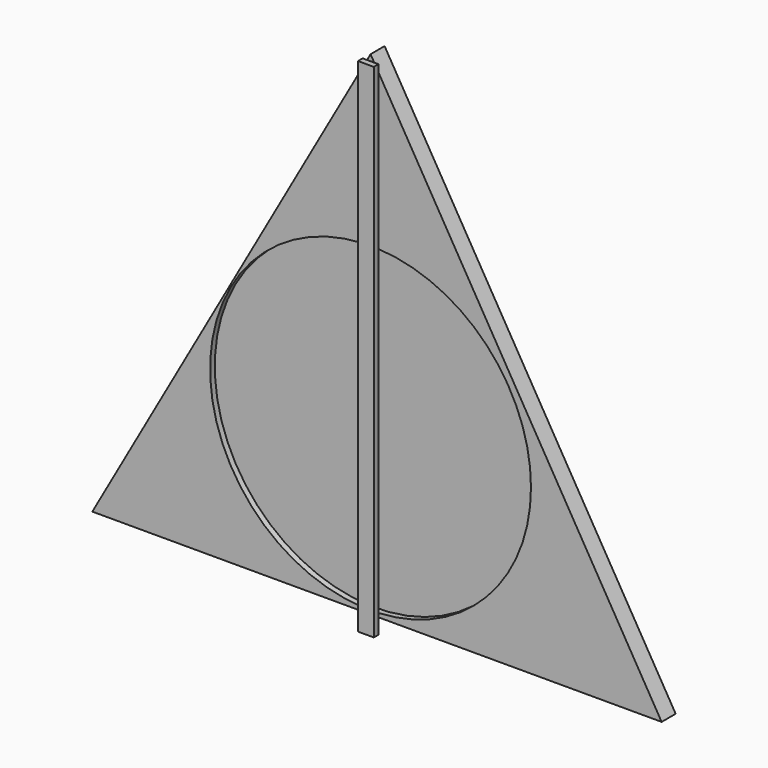
from build123d import *

# Parameters (mm, degrees)
F1_DEPTH = 3
F2_R     = 27.42995
F3_DEPTH = 1
F5_W     = 2.706106
F5_H     = 85.87949
F6_DEPTH = 1


with BuildPart() as f1:
    # F0 (on Front) → F1 (new body)
    with BuildSketch(Plane.XZ):
        Polygon((0, 56.272782), (-47.566082, -28.044742), (49.765669, -28.044742), align=None)
    extrude(amount=F1_DEPTH)

    # F2 (on face) → F3 (cut)
    with BuildSketch(Plane.XZ.offset(3)):
        Circle(F2_R)
    extrude(amount=-F3_DEPTH, mode=Mode.SUBTRACT)

    # F5 (on face) → F6 (join)
    with BuildSketch(Plane.XZ.offset(3)):
        with Locations((0, 12.268752)):
            Rectangle(F5_W, F5_H)
    extrude(amount=F6_DEPTH)


solid = f1.part
